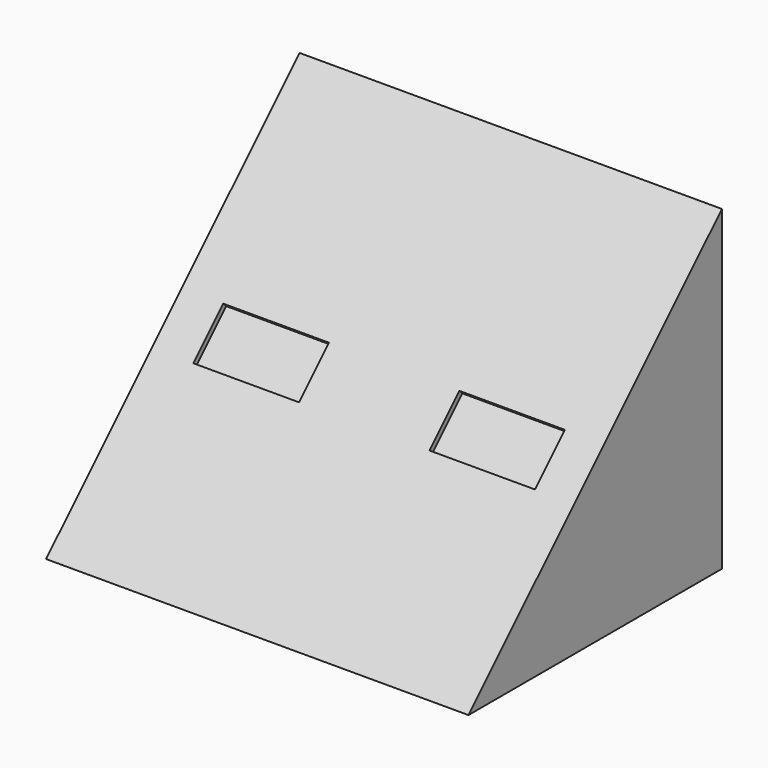
from build123d import *

# Parameters (mm, degrees)
F1_DEPTH = 101.6
F2_W     = 25.4
F2_H     = 12.7
F3_DEPTH = 1.27
F4_W     = 76.3398231938
F4_H     = 12.2339436784
F4_H_2   = 12.9679823294
F4_H_3   = 10.0934545674
F4_H_4   = 11.5307184484
F5_DEPTH = 16.51
F6_W     = 76.3398231938
F6_H     = 45.6335150034
F7_DEPTH = 12.7
F8_W     = 76.3398231938
F8_H     = 33.1548914642
F9_DEPTH = 10.16


with BuildPart() as f1:
    # F0 (on Right) → F1 (new body)
    with BuildSketch(Plane.YZ):
        Polygon((27.8234868258, 43.0451085358), (-48.3765131742, -33.1548914642), (27.8234868258, -33.1548914642), align=None)
    extrude(amount=F1_DEPTH)

    # F2 (on face) → F3 (cut)
    with BuildSketch(Plane(origin=(0, -7.610810855, 7.610810855), x_dir=(1, 0, 0), z_dir=(0, -0.7071067812, 0.7071067812))):
        with Locations((22.7085306913, -6.35)):
            Rectangle(F2_W, F2_H)
        with Locations((79.47403301, -6.35)):
            Rectangle(F2_W, F2_H)
    extrude(amount=-F3_DEPTH, mode=Mode.SUBTRACT)

    # F4 (on face) → F5 (cut)
    with BuildSketch(Plane(origin=(0, 27.8234868258, 0), x_dir=(-1, 0, 0), z_dir=(0, 1, 0))):
        with Locations((-51.3592674397, 19.0849541686)):
            Rectangle(F4_W, F4_H)
        with Locations((-51.3592674397, 6.4839911647)):
            Rectangle(F4_W, F4_H_2)
        with Locations((-51.3592674397, -5.0467272837)):
            Rectangle(F4_W, F4_H_3)
        with Locations((-51.3592674397, -15.8588137916)):
            Rectangle(F4_W, F4_H_4)
        with Locations((-51.3592674397, -27.38953224)):
            Rectangle(F4_W, F4_H_4)
    extrude(amount=-F5_DEPTH, mode=Mode.SUBTRACT)

    # F6 (on face) → F7 (cut)
    with BuildSketch(Plane(origin=(0, 11.3134868258, 0), x_dir=(-1, 0, 0), z_dir=(0, 1, 0))):
        with Locations((-51.3592674397, -10.3381339625)):
            Rectangle(F6_W, F6_H)
    extrude(amount=-F7_DEPTH, mode=Mode.SUBTRACT)

    # F8 (on face) → F9 (cut)
    with BuildSketch(Plane(origin=(0, -1.3865131742, 0), x_dir=(-1, 0, 0), z_dir=(0, 1, 0))):
        with Locations((-51.3592674397, -16.5774457321)):
            Rectangle(F8_W, F8_H)
    extrude(amount=-F9_DEPTH, mode=Mode.SUBTRACT)


solid = f1.part
